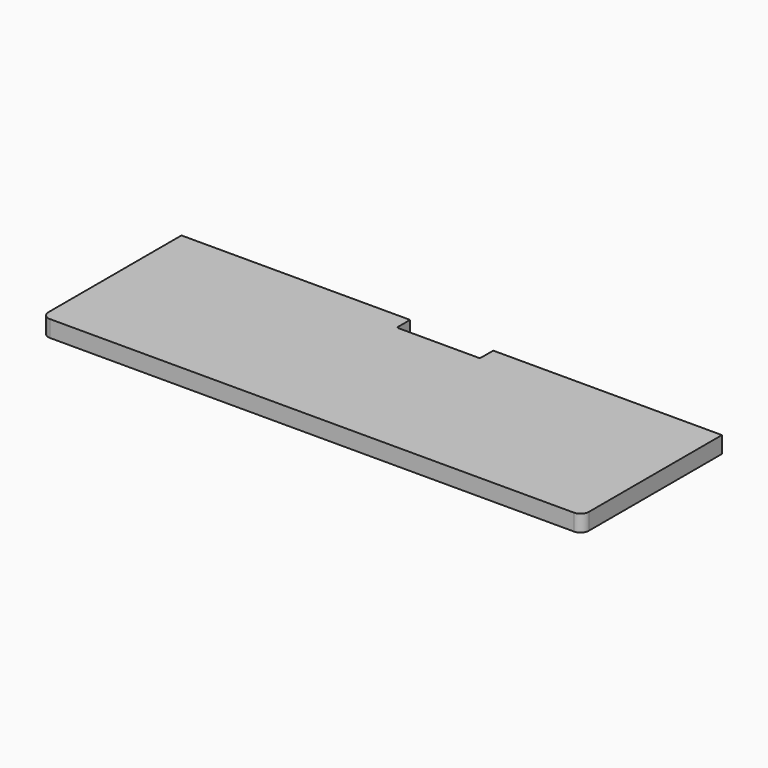
from build123d import *

# Parameters (mm, degrees)
F0_W     = 650
F0_H     = 210
F1_DEPTH = 20
F2_W     = 100
F2_H     = 20
F3_DEPTH = 20.001
F4_R     = 10
F5_R     = 2


with BuildPart() as f1:
    # F0 (on Top) → F1 (new body)
    with BuildSketch(Plane.XY):
        Rectangle(F0_W, F0_H)
    extrude(amount=F1_DEPTH)

    # F2 (on face) → F3 (cut, through all)
    with BuildSketch(Plane.XY.offset(20)):
        with Locations((0, 95)):
            Rectangle(F2_W, F2_H)
    extrude(amount=-F3_DEPTH, mode=Mode.SUBTRACT)

    # F4
    f4_edges = [f1.edges().sort_by_distance(p)[0] for p in [
        (-325, -105, 10),
        (325, -105, 10),
    ]]
    fillet(f4_edges, radius=F4_R)

    # F5
    f5_edges = [f1.edges().sort_by_distance(p)[0] for p in [
        (-50, 85, 10),
        (50, 85, 10),
    ]]
    fillet(f5_edges, radius=F5_R)


solid = f1.part
